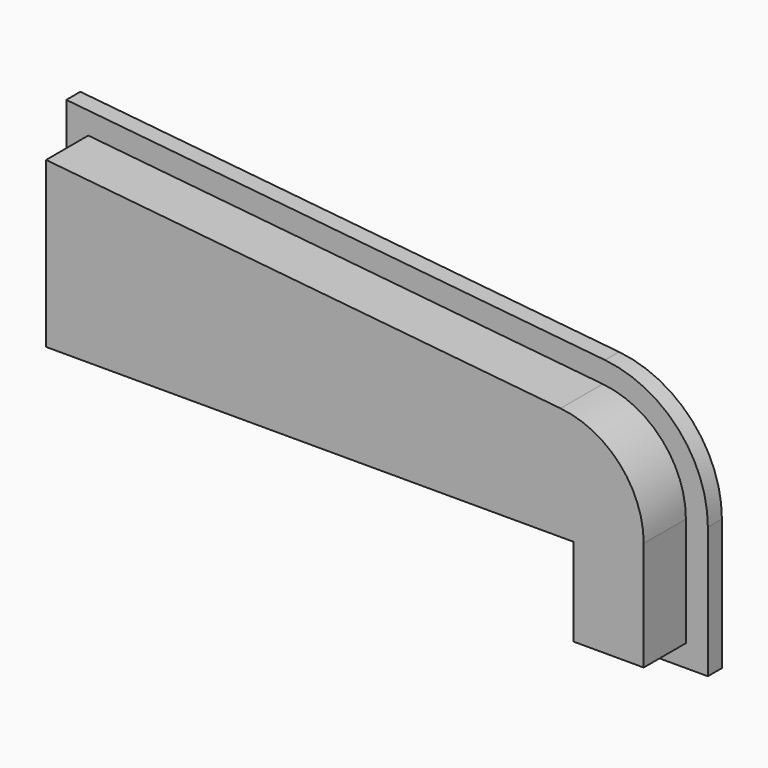
from build123d import *

# Parameters (mm, degrees)
F1_DEPTH = 2
F2_DEPTH = 6


with BuildPart() as f1:
    # F0 (on Front) → F1 (new body)
    with BuildSketch(Plane.XZ):
        with BuildLine():
            Line((0, 24), (0, 0))
            Line((0, 0), (60, 0))
            Line((60, 0), (60, -10))
            Line((60, -10), (73, -10))
            Line((73, -10), (73, 4.935162))
            ThreePointArc((73, 4.935162), (69.638883, 13.658231), (61.293548, 17.870645))
            Line((61.293548, 17.870645), (0, 24))
        make_face()
        with BuildLine():
            Line((62.5, 2.5), (2.5, 2.5))
            Line((2.5, 2.5), (2.5, 21.237531))
            Line((2.5, 21.237531), (61.044789, 15.383052))
            ThreePointArc((61.044789, 15.383052), (67.785252, 11.980718), (70.5, 4.935162))
            Line((70.5, 4.935162), (70.5, -7.5))
            Line((70.5, -7.5), (62.5, -7.5))
            Line((62.5, -7.5), (62.5, 2.5))
        make_face(mode=Mode.SUBTRACT)
        with BuildLine():
            Line((2.5, 21.237531), (2.5, 2.5))
            Line((2.5, 2.5), (62.5, 2.5))
            Line((62.5, 2.5), (62.5, -7.5))
            Line((62.5, -7.5), (70.5, -7.5))
            Line((70.5, -7.5), (70.5, 4.935162))
            ThreePointArc((70.5, 4.935162), (67.785252, 11.980718), (61.044789, 15.383052))
            Line((61.044789, 15.383052), (2.5, 21.237531))
        make_face()
    extrude(amount=-F1_DEPTH)

    # F0 (on Front) → F2 (join)
    with BuildSketch(Plane.XZ):
        with BuildLine():
            Line((2.5, 21.237531), (2.5, 2.5))
            Line((2.5, 2.5), (62.5, 2.5))
            Line((62.5, 2.5), (62.5, -7.5))
            Line((62.5, -7.5), (70.5, -7.5))
            Line((70.5, -7.5), (70.5, 4.935162))
            ThreePointArc((70.5, 4.935162), (67.785252, 11.980718), (61.044789, 15.383052))
            Line((61.044789, 15.383052), (2.5, 21.237531))
        make_face()
    extrude(amount=F2_DEPTH)


solid = f1.part
